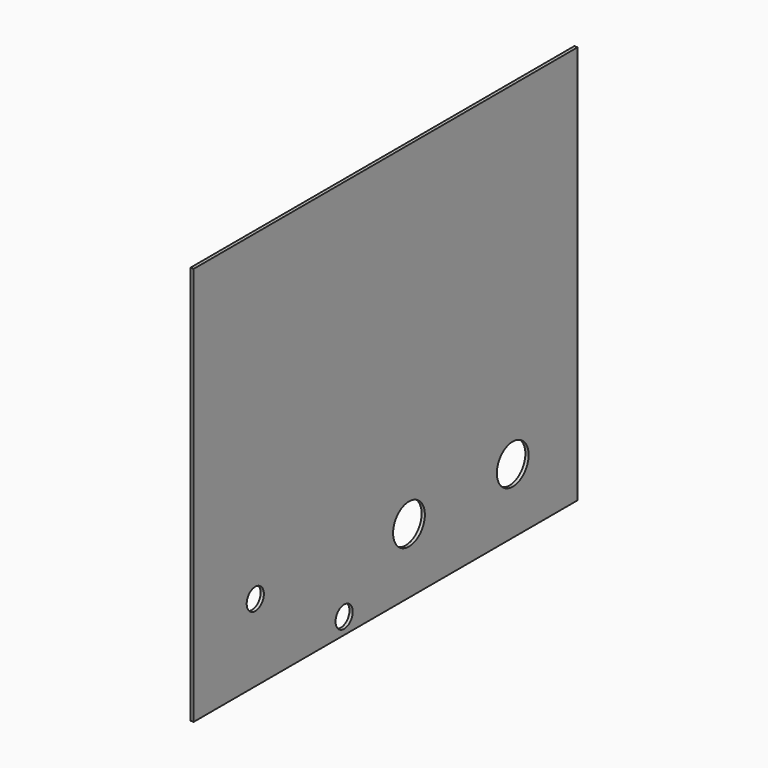
from build123d import *

# Parameters (mm, degrees)
F0_W     = 592
F0_H     = 492
F0_R     = 13.25
F0_R_2   = 24.5
F1_DEPTH = 4


with BuildPart() as f1:
    # F0 (on Right) → F1 (new body)
    with BuildSketch(Plane.YZ):
        with Locations((296, 246)):
            Rectangle(F0_W, F0_H)
        with Locations((95, 95)):
            Circle(F0_R, mode=Mode.SUBTRACT)
        with Locations((232, 20)):
            Circle(F0_R, mode=Mode.SUBTRACT)
        with Locations((332, 80)):
            Circle(F0_R_2, mode=Mode.SUBTRACT)
        with Locations((492, 80)):
            Circle(F0_R_2, mode=Mode.SUBTRACT)
    extrude(amount=F1_DEPTH)


solid = f1.part
